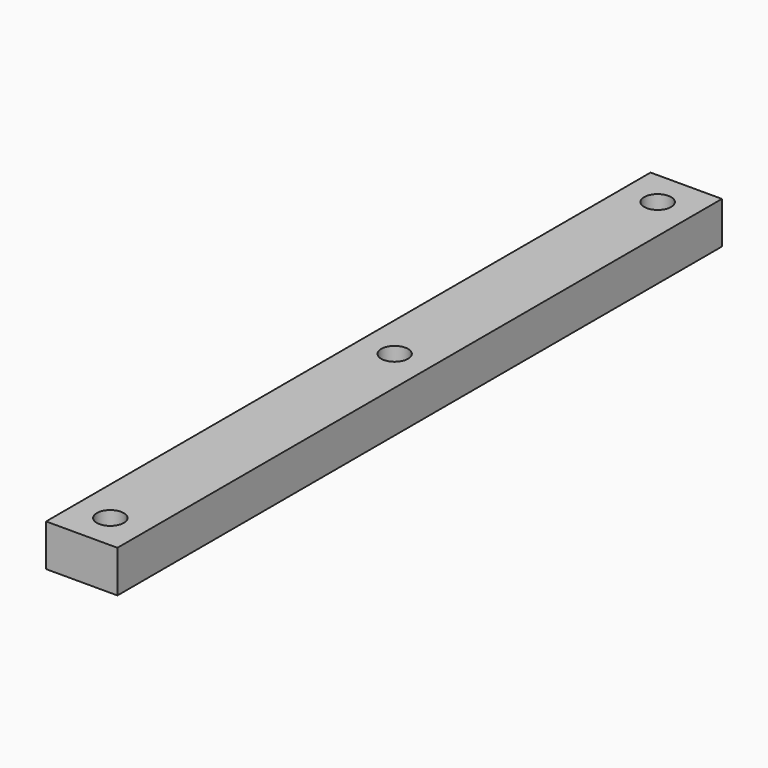
from build123d import *

# Parameters (mm, degrees)
SKETCH019_W      = 8.5
SKETCH019_H      = 90
EXTRUDE015_DEPTH = 5
SKETCH020_R      = 1.6
HOLE006_DEPTH    = 5
HOLE006_TIPS_R   = 1.6


with BuildPart() as part:
    # Sketch019 (on Face9 of BaseFeature002) → Extrude015 (new body)
    with BuildSketch(Plane.XY):
        with Locations((69.820944, 71.605001)):
            Rectangle(SKETCH019_W, SKETCH019_H)
    extrude(amount=-EXTRUDE015_DEPTH)

    # Sketch020 (on Face5 of Extrude015) → Hole006 (cut)
    with BuildSketch(Plane.XY):
        with Locations((69.800003, 112.380005)):
            Circle(SKETCH020_R)
        with Locations((69.799998, 73.219998)):
            Circle(SKETCH020_R)
        with Locations((69.799998, 30.879999)):
            Circle(SKETCH020_R)
    extrude(amount=-HOLE006_DEPTH, mode=Mode.SUBTRACT)

    # Hole006 tips → Hole006 tip 1 section 0
    with BuildSketch(Plane.XY.offset(-5), mode=Mode.PRIVATE) as hole006_tip_1_s0:
        with Locations((69.800003, 112.380005)):
            Circle(HOLE006_TIPS_R)
    loft([hole006_tip_1_s0.sketch, Vertex(69.800003, 112.380005, -5.961377)], mode=Mode.SUBTRACT)

    # Hole006 tips → Hole006 tip 2 section 0
    with BuildSketch(Plane.XY.offset(-5), mode=Mode.PRIVATE) as hole006_tip_2_s0:
        with Locations((69.799998, 73.219998)):
            Circle(HOLE006_TIPS_R)
    loft([hole006_tip_2_s0.sketch, Vertex(69.799998, 73.219998, -5.961377)], mode=Mode.SUBTRACT)

    # Hole006 tips → Hole006 tip 3 section 0
    with BuildSketch(Plane.XY.offset(-5), mode=Mode.PRIVATE) as hole006_tip_3_s0:
        with Locations((69.799998, 30.879999)):
            Circle(HOLE006_TIPS_R)
    loft([hole006_tip_3_s0.sketch, Vertex(69.799998, 30.879999, -5.961377)], mode=Mode.SUBTRACT)


solid = part.part
